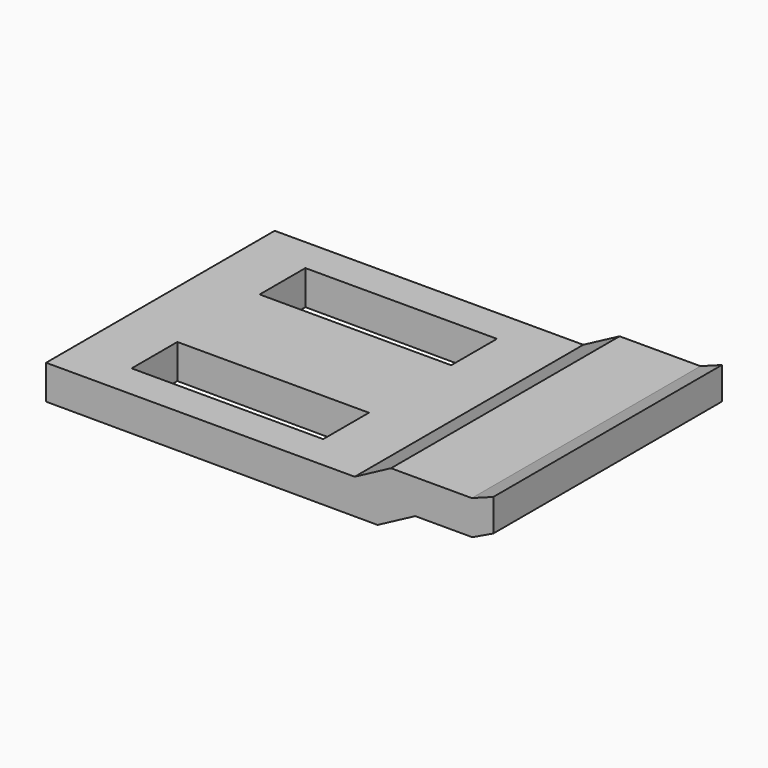
from build123d import *

# Parameters (mm, degrees)
F1_DEPTH = 25
F2_W     = 16.760172
F2_H     = 5
F3_DEPTH = 25


with BuildPart() as f1:
    # F0 (on Front) → F1 (new body)
    with BuildSketch(Plane.XZ):
        Polygon((21.915637, 3.063245), (-5.084363, 3.063245), (-5.084363, 0.063245), (23.915568, 0), (27.208995, 1.75), (32.208995, 1.75), (34.042088, 2.632186), (34.042088, 5.450061), (32.16216, 4.75), (25.09004, 4.75), align=None)
    extrude(amount=F1_DEPTH)

    # F2 (on face) → F3 (cut)
    with BuildSketch(Plane.XY.offset(3.063245)):
        with Locations((8.380086, -5.5)):
            Rectangle(F2_W, F2_H)
        with Locations((8.380086, -19.5)):
            Rectangle(F2_W, F2_H)
    extrude(amount=-F3_DEPTH, mode=Mode.SUBTRACT)


solid = f1.part
